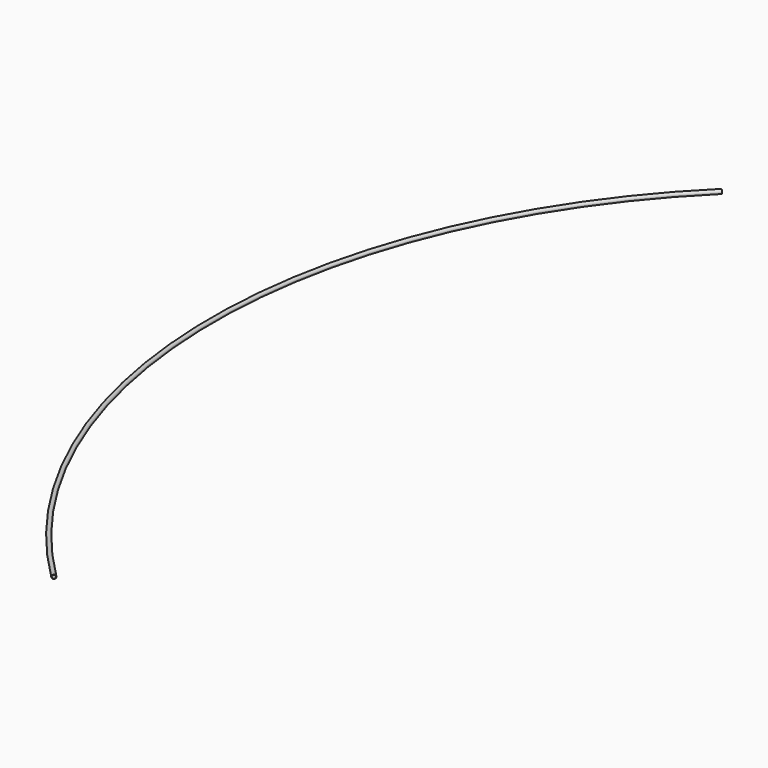
from build123d import *

# Parameters (mm, degrees)
F0_R          = 13.335
F0_R_2        = 11.227
F1_ANGLE_BACK = 45.445
F1_ANGLE      = 90.89


with BuildPart() as f1:
    # F0 (on Front) → F1 (revolve)
    with BuildSketch(Plane.XZ, mode=Mode.PRIVATE) as f1_sk:
        Circle(F0_R)
        Circle(F0_R_2, mode=Mode.SUBTRACT)
    revolve(f1_sk.sketch.rotate(Axis((3845, 0, -50), (0, 0, -1)), -F1_ANGLE_BACK), axis=Axis((3845, 0, -50), (0, 0, -1)), revolution_arc=F1_ANGLE)


solid = f1.part
